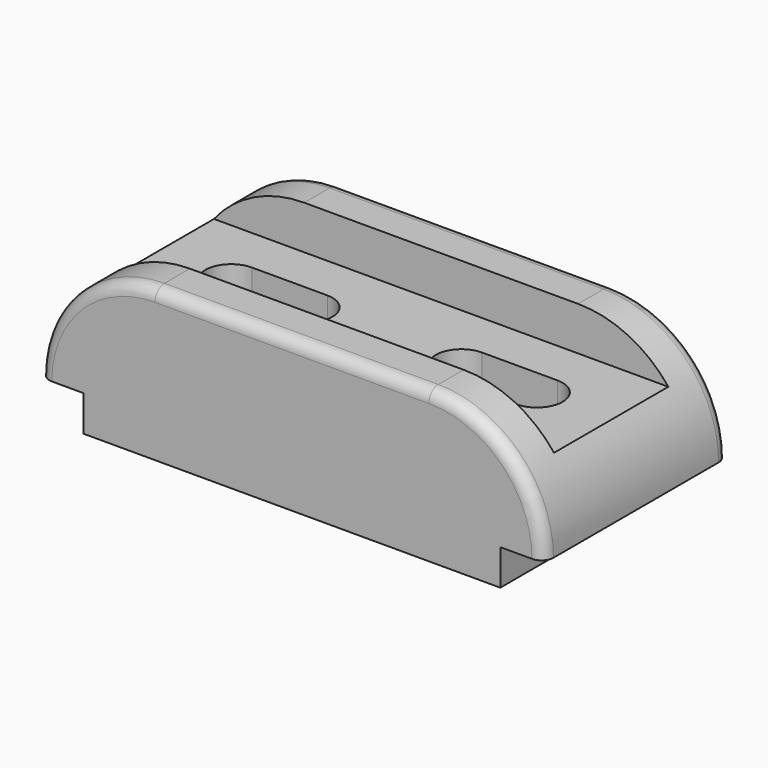
from build123d import *

# Parameters (mm, degrees)
F1_DEPTH = 29
F3_DEPTH = 38.001
F4_DEPTH = 11
F5_R     = 3


with BuildPart() as f1:
    # F0 (on Front) → F1 (new body, symmetric)
    with BuildSketch(Plane.XZ):
        with BuildLine():
            Line((34.5, 38), (-34.5, 38))
            ThreePointArc((-34.5, 38), (-55.006097, 29.506097), (-63.5, 9))
            Line((-63.5, 9), (-52.5, 9))
            Line((-52.5, 9), (-52.5, 0))
            Line((-52.5, 0), (52.5, 0))
            Line((52.5, 0), (52.5, 9))
            Line((52.5, 9), (63.5, 9))
            ThreePointArc((63.5, 9), (55.006097, 29.506097), (34.5, 38))
        make_face()
    extrude(amount=F1_DEPTH, both=True)

    # F2 (on face) → F3 (cut, through all)
    with BuildSketch(Plane.XY.offset(38)):
        with BuildLine():
            ThreePointArc((-38.5, 6.5), (-45, 0), (-38.5, -6.5))
            Line((-38.5, -6.5), (-34.5, -6.5))
            Line((-34.5, -6.5), (-34.5, 6.5))
            Line((-34.5, 6.5), (-38.5, 6.5))
        make_face()
        with BuildLine():
            Line((-34.5, 6.5), (-34.5, -6.5))
            Line((-34.5, -6.5), (-19.5, -6.5))
            ThreePointArc((-19.5, -6.5), (-13, 0), (-19.5, 6.5))
            Line((-19.5, 6.5), (-34.5, 6.5))
        make_face()
        with BuildLine():
            Line((19.5, -6.5), (34.5, -6.5))
            Line((34.5, -6.5), (34.5, 6.5))
            Line((34.5, 6.5), (19.5, 6.5))
            ThreePointArc((19.5, 6.5), (13, 0), (19.5, -6.5))
        make_face()
        with BuildLine():
            Line((34.5, 6.5), (34.5, -6.5))
            Line((34.5, -6.5), (38.5, -6.5))
            ThreePointArc((38.5, -6.5), (45, 0), (38.5, 6.5))
            Line((38.5, 6.5), (34.5, 6.5))
        make_face()
    extrude(amount=-F3_DEPTH, mode=Mode.SUBTRACT)

    # F2 (on face) → F4 (cut)
    with BuildSketch(Plane.XY.offset(38)):
        with BuildLine():
            Line((-34.5, -6.5), (-38.5, -6.5))
            ThreePointArc((-38.5, -6.5), (-45, 0), (-38.5, 6.5))
            Line((-38.5, 6.5), (-34.5, 6.5))
            Line((-34.5, 6.5), (-34.5, 18))
            Line((-34.5, 18), (-63.5, 18))
            Line((-63.5, 18), (-63.5, -18))
            Line((-63.5, -18), (-34.5, -18))
            Line((-34.5, -18), (-34.5, -6.5))
        make_face()
        with BuildLine():
            Line((-19.5, -6.5), (-34.5, -6.5))
            Line((-34.5, -6.5), (-34.5, -18))
            Line((-34.5, -18), (34.5, -18))
            Line((34.5, -18), (34.5, -6.5))
            Line((34.5, -6.5), (19.5, -6.5))
            ThreePointArc((19.5, -6.5), (13, 0), (19.5, 6.5))
            Line((19.5, 6.5), (34.5, 6.5))
            Line((34.5, 6.5), (34.5, 18))
            Line((34.5, 18), (-34.5, 18))
            Line((-34.5, 18), (-34.5, 6.5))
            Line((-34.5, 6.5), (-19.5, 6.5))
            ThreePointArc((-19.5, 6.5), (-13, 0), (-19.5, -6.5))
        make_face()
        with BuildLine():
            Line((34.5, -6.5), (34.5, -18))
            Line((34.5, -18), (63.5, -18))
            Line((63.5, -18), (63.5, 18))
            Line((63.5, 18), (34.5, 18))
            Line((34.5, 18), (34.5, 6.5))
            Line((34.5, 6.5), (38.5, 6.5))
            ThreePointArc((38.5, 6.5), (45, 0), (38.5, -6.5))
            Line((38.5, -6.5), (34.5, -6.5))
        make_face()
    extrude(amount=-F4_DEPTH, mode=Mode.SUBTRACT)

    # F5
    f5_edges = [f1.edges().sort_by_distance(p)[0] for p in [
        (0, -29, 38),
        (0, 29, 38),
    ]]
    fillet(f5_edges, radius=F5_R)


solid = f1.part
